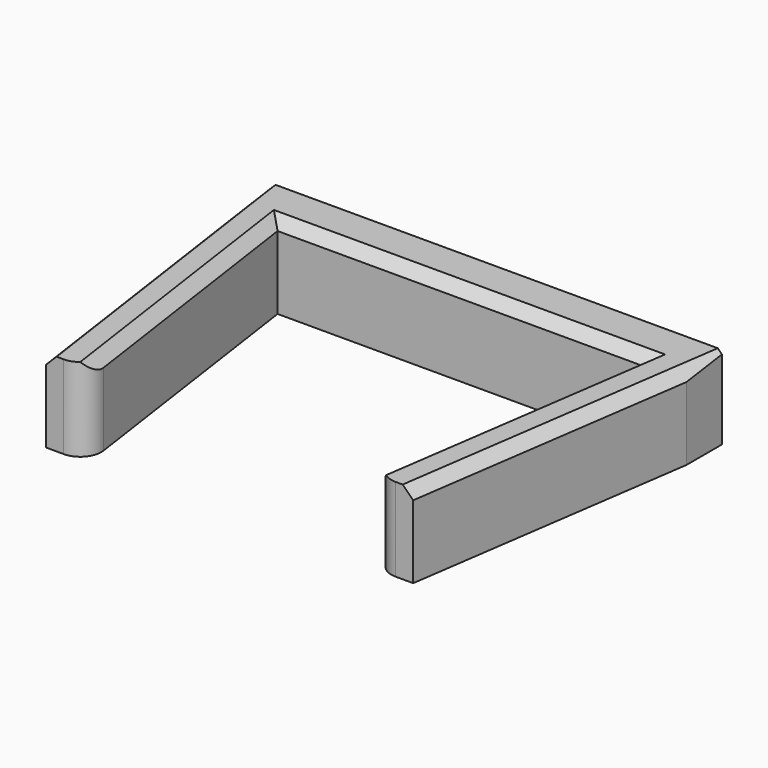
from build123d import *

# Parameters (mm, degrees)
F1_DEPTH = 12.7
F2_SIZE  = 1.5875
F3_R     = 3.175


with BuildPart() as f1:
    # F0 (on Top) → F1 (new body)
    with BuildSketch(Plane.XY):
        Polygon((34.29, 12.7), (-34.29, 12.7), (-34.29, 5.94713), (-27.94, 5.94713), (27.94, 5.94713), (34.29, 5.94713), align=None)
        Polygon((-27.94, 5.94713), (-34.29, 5.94713), (-27.94, -38.1), (-21.59, -38.1), align=None)
        Polygon((27.94, -38.1), (34.29, 5.94713), (27.94, 5.94713), (21.59, -38.1), align=None)
    extrude(amount=F1_DEPTH)

    # F2
    f2_edges = [f1.edges().sort_by_distance(p)[0] for p in [
        (-24.765, -16.076435, 12.7),
        (-31.115, -16.076435, 12.7),
        (0, 5.94713, 12.7),
        (24.765, -16.076435, 12.7),
        (31.115, -16.076435, 12.7),
    ]]
    chamfer(f2_edges, length=F2_SIZE)

    # F3
    f3_edges = [f1.edges().sort_by_distance(p)[0] for p in [
        (-21.59, -38.1, 5.55625),
        (21.59, -38.1, 5.55625),
    ]]
    fillet(f3_edges, radius=F3_R)


solid = f1.part
